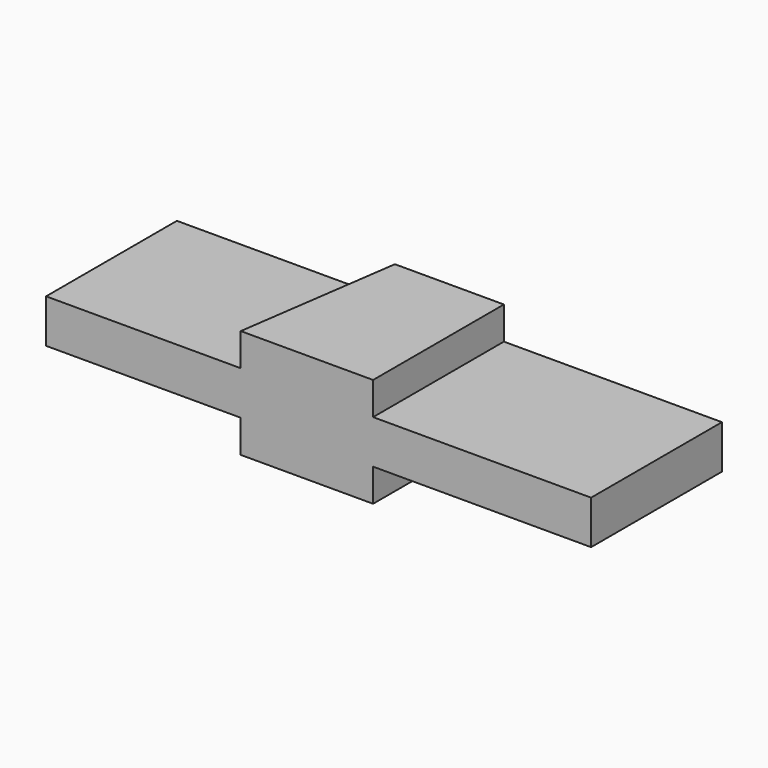
from build123d import *

# Parameters (mm, degrees)
F0_W     = 100
F0_H     = 30
F1_DEPTH = 20
F2_W     = 40
F2_H     = 30
F3_DEPTH = 6
F4_W     = 40
F4_H     = 30
F5_DEPTH = 6


with BuildPart() as f1:
    # F0 (on Top) → F1 (new body)
    with BuildSketch(Plane.XY):
        with Locations((2.482062, -26.390521)):
            Rectangle(F0_W, F0_H)
    extrude(amount=F1_DEPTH)

    # F2 (on face) → F3 (cut)
    with BuildSketch(Plane.XY.offset(20)):
        Polygon((-11.803652, -41.390521), (-7.517938, -11.390521), (-47.517938, -11.390521), (-47.517938, -41.390521), align=None)
        with Locations((32.482062, -26.390521)):
            Rectangle(F2_W, F2_H)
    extrude(amount=-F3_DEPTH, mode=Mode.SUBTRACT)

    # F4 (on face) → F5 (cut)
    with BuildSketch(Plane(origin=(0, 0, 0), x_dir=(1, 0, 0), z_dir=(0, 0, -1))):
        Polygon((-7.517938, 11.390521), (-11.803652, 41.390521), (-47.517938, 41.390521), (-47.517938, 11.390521), align=None)
        with Locations((32.482062, 26.390521)):
            Rectangle(F4_W, F4_H)
    extrude(amount=-F5_DEPTH, mode=Mode.SUBTRACT)


solid = f1.part
